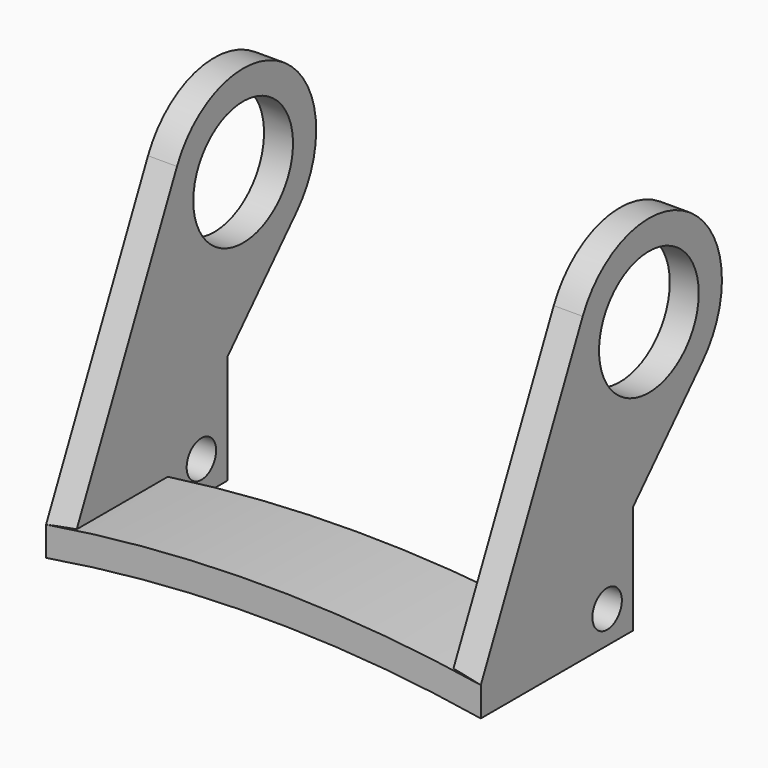
from build123d import *

# Parameters (mm, degrees)
F1_DEPTH = 20
F2_R     = 10.75
F3_DEPTH = 5
F4_R     = 10.75
F5_DEPTH = 5
F6_R     = 3.175
F7_DEPTH = 5
F8_R     = 3.175
F9_DEPTH = 5


with BuildPart() as f1:
    # F0 (on Front) → F1 (new body)
    with BuildSketch(Plane.XZ):
        with BuildLine():
            Line((37.5, -3.077656), (37.5, 1.988685))
            ThreePointArc((37.5, 1.988685), (0, 5), (-37.5, 1.988685))
            Line((-37.5, 1.988685), (-37.5, -3.077656))
            ThreePointArc((-37.5, -3.077656), (0, 0), (37.5, -3.077656))
        make_face()
    extrude(amount=F1_DEPTH)

    # F2 (on face) → F3 (join)
    with BuildSketch(Plane.YZ.offset(37.5)):
        with BuildLine():
            Line((0, 1.988685), (27.749921, 31.642143))
            ThreePointArc((27.749921, 31.642143), (25.071711, 55.451453), (1.978662, 49.066537))
            Line((1.978662, 49.066537), (-20, 1.988685))
            Line((-20, 1.988685), (0, 1.988685))
        make_face()
        with Locations((16.250001, 42.403851)):
            Circle(F2_R, mode=Mode.SUBTRACT)
    extrude(amount=-F3_DEPTH)

    # F4 (on face) → F5 (join)
    with BuildSketch(Plane(origin=(-37.5, 0, 0), x_dir=(0, -1, 0), z_dir=(-1, 0, 0))):
        with BuildLine():
            Line((20, 1.988685), (-1.978662, 49.066537))
            ThreePointArc((-1.978662, 49.066537), (-25.071711, 55.451453), (-27.749921, 31.642143))
            Line((-27.749921, 31.642143), (0, 1.988685))
            Line((0, 1.988685), (20, 1.988685))
        make_face()
        with Locations((-16.250001, 42.403851)):
            Circle(F4_R, mode=Mode.SUBTRACT)
    extrude(amount=-F5_DEPTH)

    # F6 (on face) → F7 (join)
    with BuildSketch(Plane.YZ.offset(37.5)):
        Polygon((0, 1.988685), (0, -3.077656), (12.772466, -3.077656), (12.772466, 15.637293), align=None)
        with Locations((7.242475, 2.498732)):
            Circle(F6_R, mode=Mode.SUBTRACT)
    extrude(amount=-F7_DEPTH)

    # F8 (on face) → F9 (join)
    with BuildSketch(Plane(origin=(-37.5, 0, 0), x_dir=(0, -1, 0), z_dir=(-1, 0, 0))):
        Polygon((-12.822957, -3.077656), (0, -3.077656), (0, 1.988685), (-12.822957, 15.691247), align=None)
        with Locations((-7.242475, 2.498732)):
            Circle(F8_R, mode=Mode.SUBTRACT)
    extrude(amount=-F9_DEPTH)


solid = f1.part
